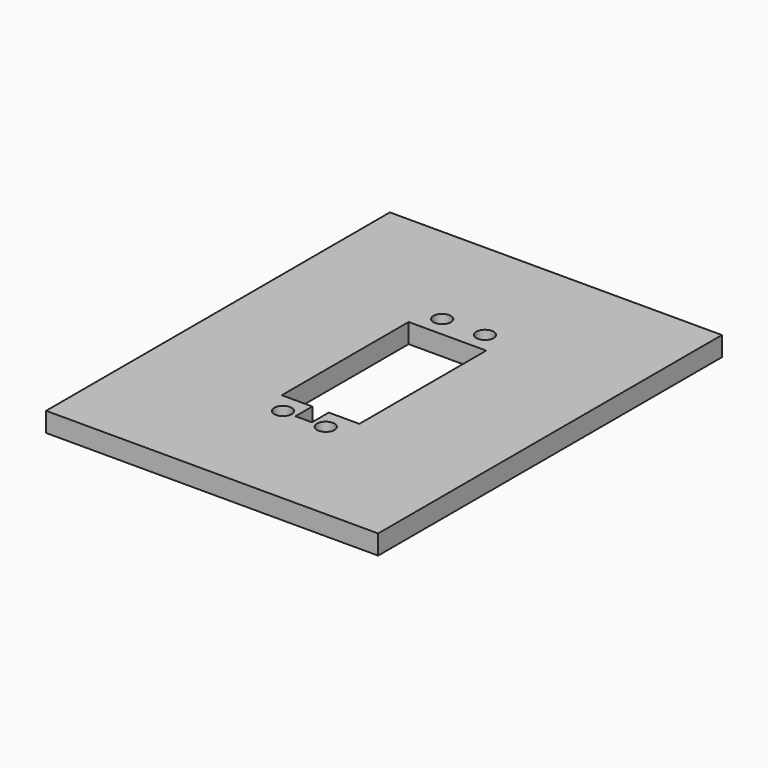
from build123d import *

# Parameters (mm, degrees)
F0_W     = 85
F0_H     = 110
F1_DEPTH = 5
F3_DEPTH = 25
F4_R     = 2.225
F5_DEPTH = 25


with BuildPart() as f1:
    # F0 (on Top) → F1 (new body)
    with BuildSketch(Plane.XY):
        Rectangle(F0_W, F0_H)
    extrude(amount=F1_DEPTH)

    # F2 (on face) → F3 (cut)
    with BuildSketch(Plane.XY.offset(5)):
        Polygon((9.925, -20.3), (9.925, 20.3), (-9.925, 20.3), (-9.925, -20.3), (-2.1, -20.3), (-2.1, -25.7), (2.1, -25.7), (2.1, -20.3), align=None)
    extrude(amount=-F3_DEPTH, mode=Mode.SUBTRACT)

    # F4 (on face) → F5 (cut)
    with BuildSketch(Plane.XY.offset(5)):
        with Locations((-5.485, 25.475)):
            Circle(F4_R)
        with Locations((5.485, 25.475)):
            Circle(F4_R)
        with Locations((-5.485, -25.475)):
            Circle(F4_R)
        with Locations((5.485, -25.48)):
            Circle(F4_R)
    extrude(amount=-F5_DEPTH, mode=Mode.SUBTRACT)


solid = f1.part
